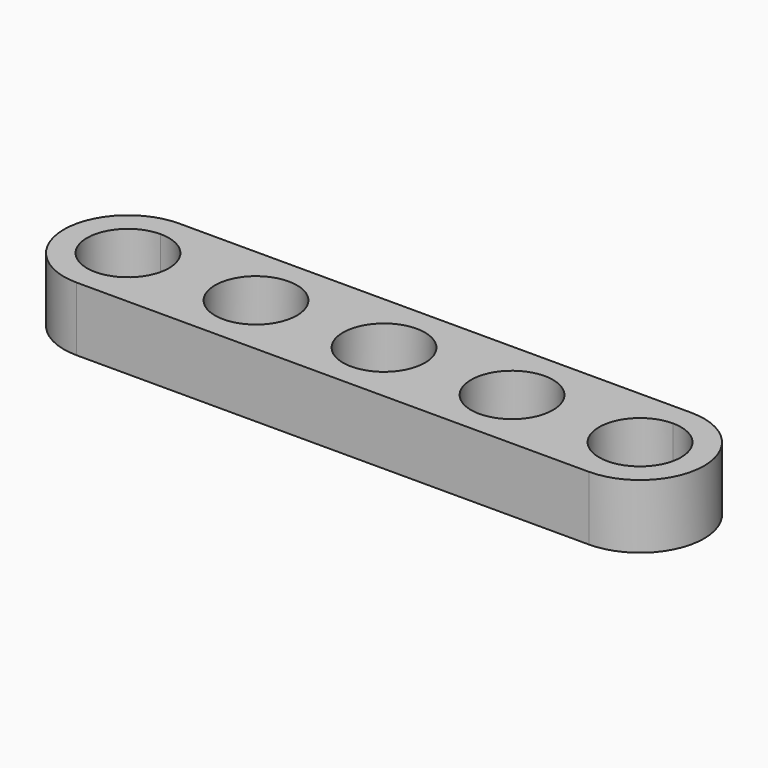
from build123d import *

# Parameters (mm, degrees)
F0_R     = 2.54
F1_DEPTH = 3.96875


with BuildPart() as f1:
    # F0 (on Top) → F1 (new body)
    with BuildSketch(Plane.XY):
        with BuildLine():
            Line((31.75, 0), (0, 0))
            Line((0, 0), (0, -1.42875))
            ThreePointArc((0, -1.42875), (1.796051, -2.172699), (2.54, -3.96875))
            ThreePointArc((2.54, -3.96875), (1.796051, -5.764801), (0, -6.50875))
            Line((0, -6.50875), (0, -7.9375))
            Line((0, -7.9375), (31.75, -7.9375))
            Line((31.75, -7.9375), (31.75, -6.50875))
            ThreePointArc((31.75, -6.50875), (29.21, -3.96875), (31.75, -1.42875))
            Line((31.75, -1.42875), (31.75, 0))
        make_face()
        with Locations((7.9375, -3.96875)):
            Circle(F0_R, mode=Mode.SUBTRACT)
        with Locations((15.875, -3.96875)):
            Circle(F0_R, mode=Mode.SUBTRACT)
        with Locations((23.8125, -3.96875)):
            Circle(F0_R, mode=Mode.SUBTRACT)
        with BuildLine():
            Line((0, -1.42875), (0, 0))
            ThreePointArc((0, 0), (-3.96875, -3.96875), (0, -7.9375))
            Line((0, -7.9375), (0, -6.50875))
            ThreePointArc((0, -6.50875), (-2.54, -3.96875), (0, -1.42875))
        make_face()
        with BuildLine():
            ThreePointArc((31.75, -7.9375), (35.71875, -3.96875), (31.75, 0))
            Line((31.75, 0), (31.75, -1.42875))
            ThreePointArc((31.75, -1.42875), (33.546051, -2.172699), (34.29, -3.96875))
            ThreePointArc((34.29, -3.96875), (33.546051, -5.764801), (31.75, -6.50875))
            Line((31.75, -6.50875), (31.75, -7.9375))
        make_face()
    extrude(amount=F1_DEPTH)


solid = f1.part
